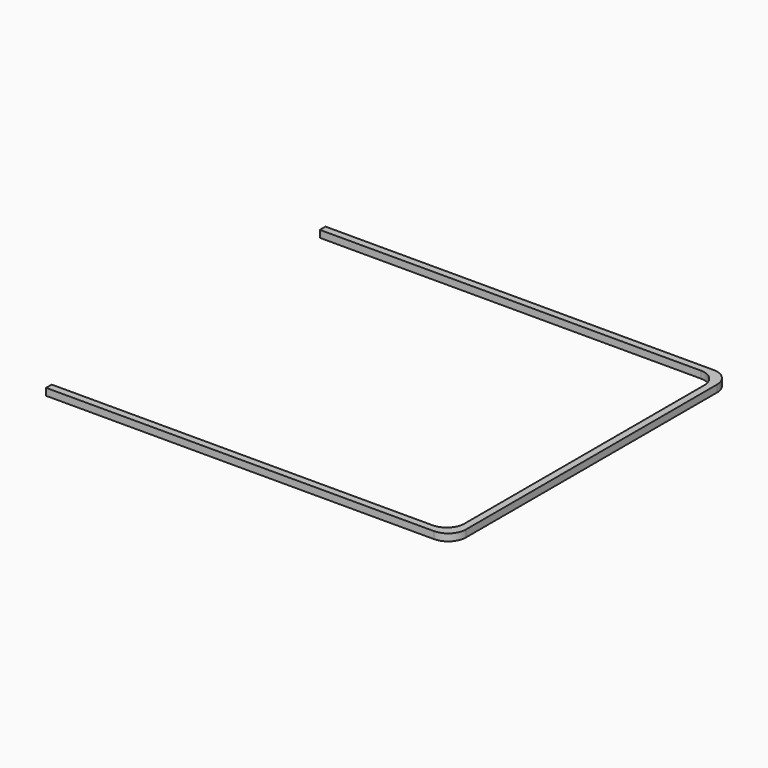
from build123d import *

# Parameters (mm, degrees)
F1_DEPTH = 2


with BuildPart() as f1:
    # F0 (on Top) → F1 (new body)
    with BuildSketch(Plane.XY):
        with BuildLine():
            ThreePointArc((100, -55.5), (98.535534, -59.035534), (95, -60.5))
            Line((95, -60.5), (-13, -60.5))
            Line((-13, -60.5), (-13, -62.5))
            Line((-13, -62.5), (97, -62.5))
            ThreePointArc((97, -62.5), (100.535534, -61.035534), (102, -57.5))
            Line((102, -57.5), (102, 31.5))
            ThreePointArc((102, 31.5), (100.535534, 35.035534), (97, 36.5))
            Line((97, 36.5), (-13, 36.5))
            Line((-13, 36.5), (-13, 34.5))
            Line((-13, 34.5), (95, 34.5))
            ThreePointArc((95, 34.5), (98.535534, 33.035534), (100, 29.5))
            Line((100, 29.5), (100, -55.5))
        make_face()
    extrude(amount=F1_DEPTH)


solid = f1.part
